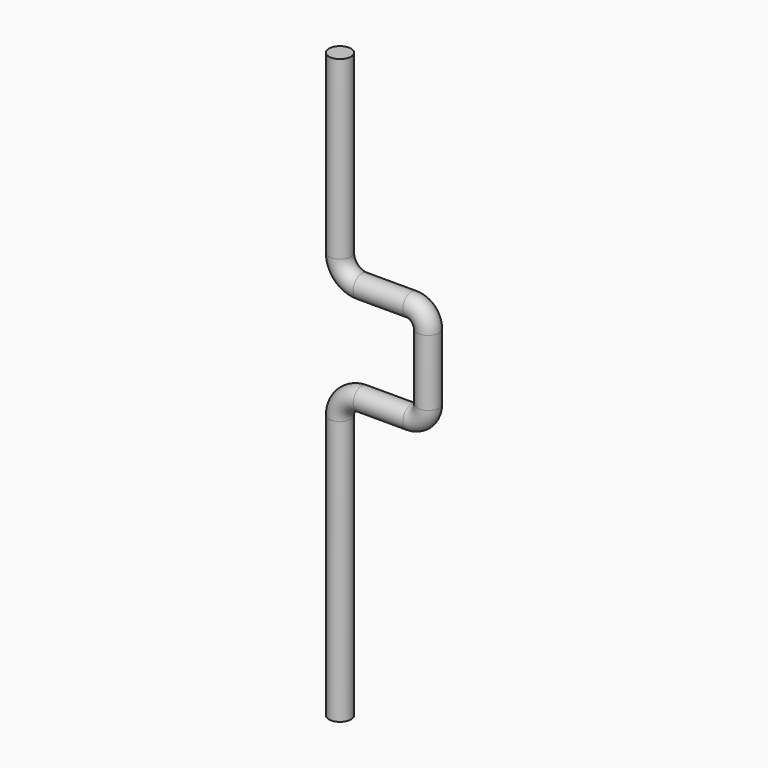
from build123d import *

# Parameters (mm, degrees)
F1_R = 12.7


with BuildPart() as f2:
    # F2: sweep along a path in F0
    with BuildLine(Plane.XZ) as f2_path:
        Line((0, 0), (0, 304.8))
        ThreePointArc((0, 304.8), (7.4394877579, 322.7605122421), (25.4, 330.2))
        Line((25.4, 330.2), (82.55, 330.2))
        ThreePointArc((82.55, 330.2), (96.0203841816, 335.7796158184), (101.6, 349.25))
        Line((101.6, 349.25), (101.6, 425.45))
        ThreePointArc((101.6, 425.45), (96.0203841816, 438.9203841816), (82.55, 444.5))
        Line((82.55, 444.5), (25.4, 444.5))
        ThreePointArc((25.4, 444.5), (7.4394877579, 451.9394877579), (0, 469.9))
        Line((0, 469.9), (0, 673.1))
    # F1 (on Top) → F2 (sweep)
    with BuildSketch(Plane.XY):
        Circle(F1_R)
    sweep(path=f2_path.line)


solid = f2.part
